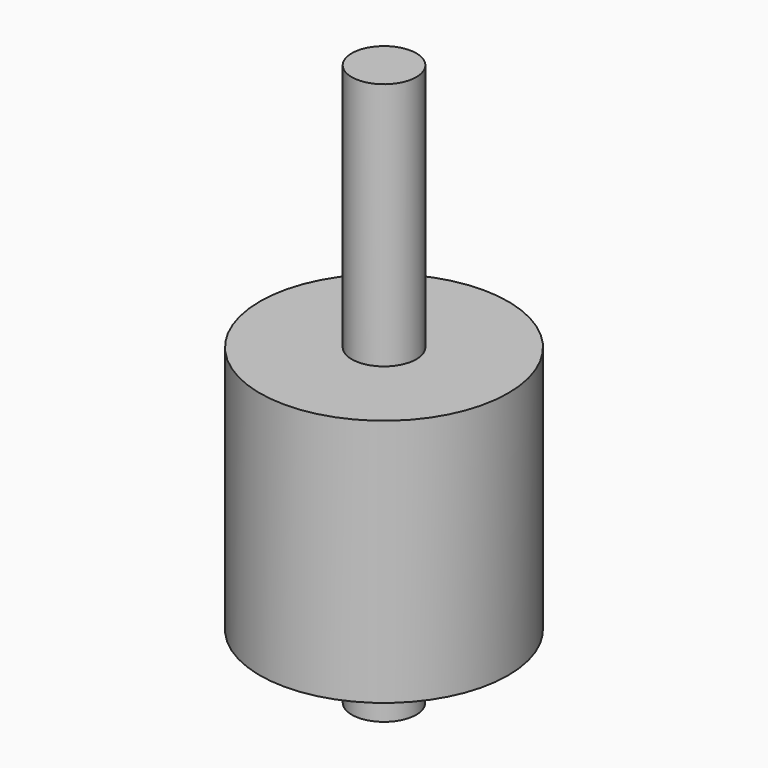
from build123d import *

# Parameters (mm, degrees)
F0_R     = 6.35
F1_DEPTH = 12.7
F2_R     = 1.651
F3_DEPTH = 12.7
F4_R     = 1.647045
F5_DEPTH = 3.302


with BuildPart() as f1:
    # F0 (on Top) → F1 (new body)
    with BuildSketch(Plane.XY):
        with Locations((-24.937442, 17.330116)):
            Circle(F0_R)
    extrude(amount=-F1_DEPTH)

    # F2 (on Top) → F3 (join)
    with BuildSketch(Plane.XY):
        with Locations((-24.937442, 17.330116)):
            Circle(F2_R)
    extrude(amount=F3_DEPTH)

    # F4 (on face) → F5 (join)
    with BuildSketch(Plane(origin=(0, 0, -12.7), x_dir=(1, 0, 0), z_dir=(0, 0, -1))):
        with Locations((-24.937442, -17.330116)):
            Circle(F4_R)
    extrude(amount=F5_DEPTH)


solid = f1.part
